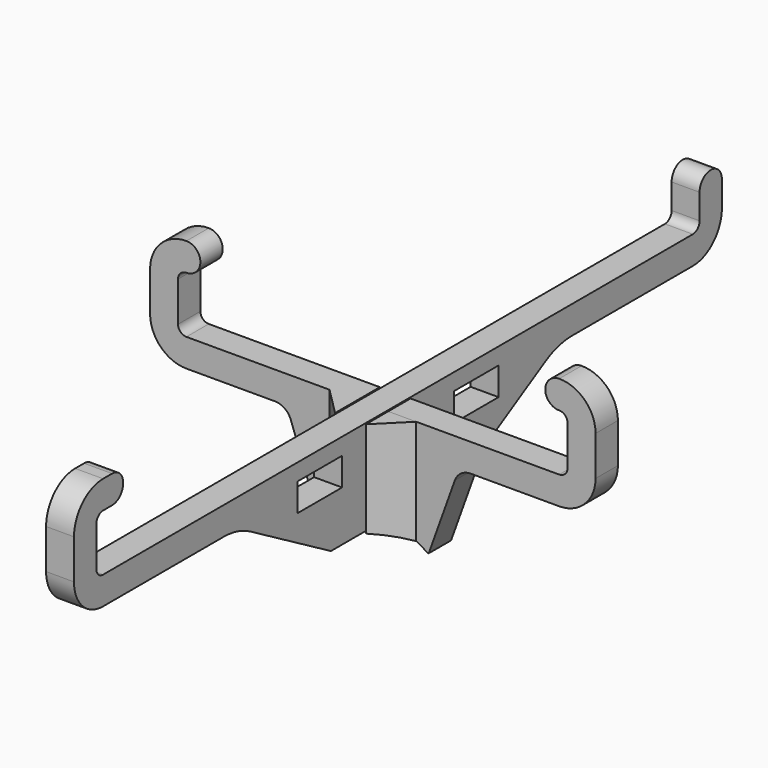
from build123d import *

# Parameters (mm, degrees)
SKETCH_W     = 10
SKETCH_H     = 5
PAD_DEPTH    = 2.5
PAD001_DEPTH = 2.5
PAD002_DEPTH = 20
POCKET_DEPTH = 10


with BuildPart() as vertical:
    # Sketch → Pad (new body, symmetric)
    with BuildSketch(Plane.YZ):
        with BuildLine():
            Line((72.45, 18.5), (72.45, 23))
            ThreePointArc((72.45, 23), (69.95, 25.5), (67.45, 23))
            Line((67.45, 18.500001), (67.45, 23))
            ThreePointArc((65.95, 17), (67.01066, 17.43934), (67.45, 18.500001))
            Line((-65.95, 17), (65.95, 17))
            ThreePointArc((-67.45, 18.500001), (-67.01066, 17.43934), (-65.95, 17))
            Line((-67.45, 25.599999), (-67.45, 18.500001))
            ThreePointArc((-65.950001, 27.1), (-67.010661, 26.66066), (-67.45, 25.599999))
            Line((-65.950001, 27.1), (-63.950001, 27.1))
            ThreePointArc((-63.950001, 27.1), (-61.45, 29.599999), (-63.949999, 32.1))
            Line((-63.949999, 32.1), (-65.95, 32.1))
            ThreePointArc((-65.95, 32.1), (-70.546194, 30.196194), (-72.45, 25.6))
            Line((-72.45, 18.500001), (-72.45, 25.6))
            ThreePointArc((-72.45, 18.500001), (-70.546194, 13.903806), (-65.95, 12))
            Line((-65.95, 12), (-38.960811, 12))
            ThreePointArc((-33, 10.392302), (-35.873904, 11.591026), (-38.960811, 12))
            Line((-15, 0), (-33, 10.392302))
            Line((-15, 0), (-2.75, 0))
            Line((-2.75, 0), (-2.75, 8.7))
            Line((-2.75, 8.7), (2.75, 8.7))
            Line((2.75, 8.7), (2.75, 0))
            Line((2.75, 0), (15, 0))
            Line((15, 0), (33, 10.392302))
            ThreePointArc((38.960811, 12), (35.873904, 11.591026), (33, 10.392302))
            Line((38.960811, 12), (65.95, 12))
            ThreePointArc((65.95, 12), (70.546194, 13.903806), (72.45, 18.5))
        make_face()
        with Locations((-17.5, 11.5)):
            Rectangle(SKETCH_W, SKETCH_H, mode=Mode.SUBTRACT)
        with Locations((17.5, 11.5)):
            Rectangle(SKETCH_W, SKETCH_H, mode=Mode.SUBTRACT)
    extrude(amount=PAD_DEPTH, both=True)


with BuildPart() as fusion:
    # Sketch001 → Pad001 (new body, symmetric)
    with BuildSketch(Plane.XZ):
        with BuildLine():
            Line((17.5, 11.999986), (33.350007, 12))
            ThreePointArc((33.350007, 12), (37.946196, 13.903808), (39.85, 18.499999))
            Line((39.85, 25.599974), (39.85, 18.499999))
            ThreePointArc((39.85, 25.599974), (37.946194, 30.196167), (33.350001, 32.099973))
            ThreePointArc((33.350001, 32.099973), (30.850001, 29.599972), (33.350001, 27.099973))
            ThreePointArc((34.85, 25.599974), (34.41066, 26.660633), (33.350001, 27.099973))
            Line((34.85, 18.499999), (34.85, 25.599974))
            ThreePointArc((33.350001, 17), (34.41066, 17.43934), (34.85, 18.499999))
            Line((2.75, 17), (33.350001, 17))
            Line((2.75, 8.3), (2.75, 17))
            Line((-2.75, 8.3), (2.75, 8.3))
            Line((-2.75, 16.999986), (-2.75, 8.3))
            Line((-33.35, 16.999986), (-2.75, 16.999986))
            ThreePointArc((-34.85, 18.499999), (-34.410665, 17.43933), (-33.35, 16.999986))
            Line((-34.85, 18.499999), (-34.85, 25.599974))
            ThreePointArc((-33.350001, 27.099986), (-34.410665, 26.660641), (-34.85, 25.599974))
            ThreePointArc((-33.350001, 27.099986), (-30.850001, 29.599986), (-33.350001, 32.099986))
            ThreePointArc((-33.350001, 32.099986), (-37.946199, 30.196175), (-39.85, 25.599974))
            Line((-39.85, 25.599974), (-39.85, 18.499999))
            ThreePointArc((-39.85, 18.499999), (-37.946199, 13.903797), (-33.350001, 11.999986))
            Line((-33.350001, 11.999986), (-17.5, 11.999986))
            ThreePointArc((-14.676753, 10.014517), (-15.774253, 11.453921), (-17.5, 11.999986))
            Line((-14.676753, 10.014517), (-10, -3))
            Line((-10, -3), (10, -3))
            Line((10, -3), (14.676755, 10.014518))
            ThreePointArc((17.5, 11.999986), (15.774255, 11.45392), (14.676755, 10.014518))
        make_face()
    extrude(amount=PAD001_DEPTH, both=True)

    # Sketch002 → Pad002 (new body)
    with BuildSketch(Plane(origin=(0, 0, 16.999986), x_dir=(-1, 0, 0), z_dir=(0, 0, 1))):
        Polygon((-7.75, 2.5), (-2.75, 7.5), (-2.75, 2.5), align=None)
        Polygon((2.75, 7.5), (2.75, 2.5), (7.75, 2.5), align=None)
    extrude(amount=-PAD002_DEPTH)

    # Sketch003 → Pocket (cut)
    with BuildSketch(Plane(origin=(0, 2.5, 0), x_dir=(1, 0, 0), z_dir=(0, 1, 0))):
        with BuildLine():
            ThreePointArc((-10, 3.138593), (0, 0), (10, 3.138593))
            Line((-10, 3.138593), (10, 3.138593))
        make_face()
    extrude(amount=-POCKET_DEPTH, mode=Mode.SUBTRACT)

    # Fusion: union Vertical
    add(vertical.part)


solid = fusion.part
